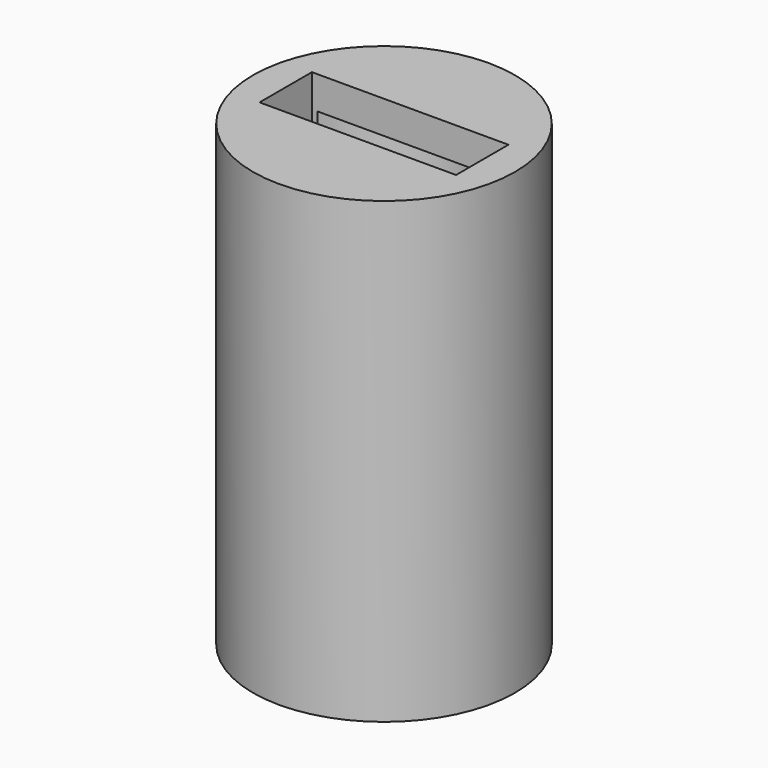
from build123d import *

# Parameters (mm, degrees)
F0_R     = 2.54
F1_DEPTH = 8.89
F2_T     = -0.635
F3_W     = 3.81
F3_H     = 1.27
F4_DEPTH = 5.08


with BuildPart() as f1:
    # F0 (on Top) → F1 (new body)
    with BuildSketch(Plane.XY):
        Circle(F0_R)
    extrude(amount=F1_DEPTH)

    # F2
    f2_openings = [f1.faces().sort_by_distance(p)[0] for p in [
        (0, 0, 0),
    ]]
    offset(amount=F2_T, openings=f2_openings)

    # F3 (on face) → F4 (cut)
    with BuildSketch(Plane.XY.offset(8.89)):
        Rectangle(F3_W, F3_H)
    extrude(amount=-F4_DEPTH, mode=Mode.SUBTRACT)


solid = f1.part
